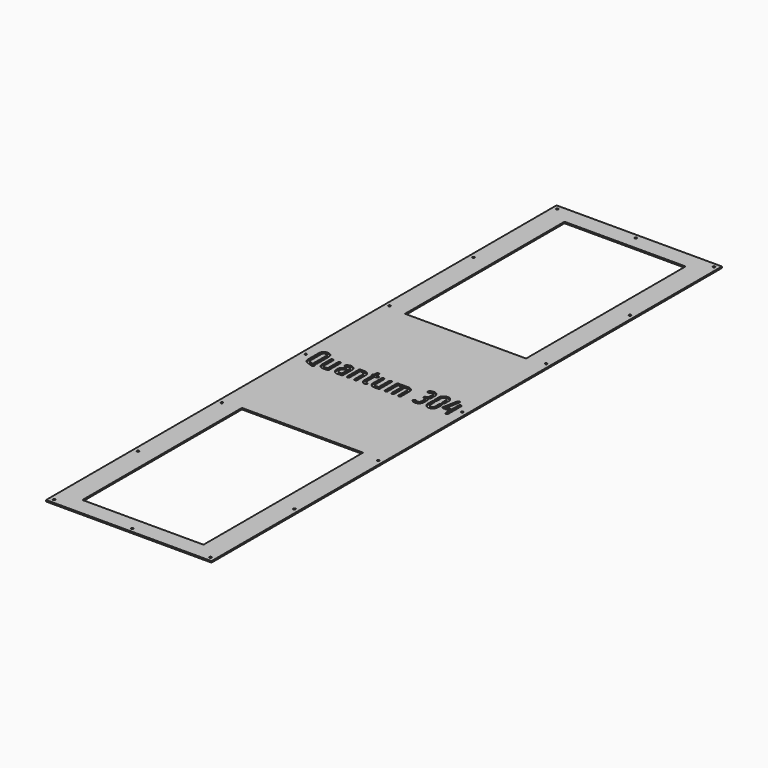
from build123d import *

# Parameters (mm, degrees)
F0_W     = 237.0582
F0_H     = 914.4
F0_R     = 1.575003
F0_W_2   = 173.5582
F0_H_2   = 285.75
F1_DEPTH = 2.032


with BuildPart() as f1:
    # F0 (on Top) → F1 (new body)
    with BuildSketch(Plane.XY):
        Rectangle(F0_W, F0_H)
        with Locations((-112.1791, -450.85)):
            Circle(F0_R, mode=Mode.SUBTRACT)
        with Locations((-112.1791, -300.566658)):
            Circle(F0_R, mode=Mode.SUBTRACT)
        with Locations((-112.1791, -150.283342)):
            Circle(F0_R, mode=Mode.SUBTRACT)
        Polygon((-82.569228, -9.030868), (-82.66844, -8.336331), (-82.718072, -7.592187), (-82.718072, 7.414641), (-82.693256, 7.588275), (-82.66844, 7.7867), (-82.618834, 7.960335), (-82.569228, 8.133969), (-82.494806, 8.307603), (-82.395593, 8.481238), (-82.271565, 8.630056), (-82.147562, 8.7789), (-81.998718, 8.902929), (-81.8499, 9.026931), (-81.676265, 9.126169), (-81.502631, 9.200566), (-81.328997, 9.250197), (-81.155362, 9.299804), (-80.956937, 9.324594), (-80.783303, 9.34941), (-80.584853, 9.324594), (-80.386428, 9.299804), (-80.212794, 9.250197), (-80.039159, 9.200566), (-79.865525, 9.126169), (-79.69189, 9.026931), (-79.543072, 8.902929), (-79.394228, 8.7789), (-79.2702, 8.630056), (-79.146197, 8.481238), (-79.046959, 8.307603), (-78.972562, 8.133969), (-78.922931, 7.960335), (-78.873325, 7.7867), (-78.848534, 7.588275), (-78.848534, 7.414641), (-78.848534, -7.592187), (-78.823718, -7.939456), (-78.774112, -8.261934), (-78.69969, -8.584387), (-78.600478, -8.88205), (-78.451659, -9.179687), (-78.278025, -9.452559), (-78.079575, -9.725406), (-77.856334, -9.998253), (-77.583487, -10.221493), (-77.31064, -10.419944), (-77.037794, -10.593553), (-76.740131, -10.742397), (-76.442468, -10.841609), (-76.120015, -10.916031), (-75.797562, -10.965637), (-75.450294, -10.990428), (-72.052053, -10.990428), (-72.052053, 7.414641), (-72.052053, 7.588275), (-72.027237, 7.7867), (-71.977631, 7.960335), (-71.928025, 8.133969), (-71.853603, 8.307603), (-71.75439, 8.481238), (-71.630362, 8.630056), (-71.506334, 8.7789), (-71.357515, 8.902929), (-71.208697, 9.026931), (-71.035062, 9.126169), (-70.861428, 9.200566), (-70.687794, 9.250197), (-70.514159, 9.299804), (-70.315709, 9.324594), (-70.117284, 9.34941), (-69.94365, 9.324594), (-69.7452, 9.299804), (-69.571565, 9.250197), (-69.397931, 9.200566), (-69.224322, 9.126169), (-69.050687, 9.026931), (-68.901843, 8.902929), (-68.753025, 8.7789), (-68.628997, 8.630056), (-68.504968, 8.481238), (-68.405756, 8.307603), (-68.331334, 8.133969), (-68.281728, 7.960335), (-68.232122, 7.7867), (-68.207306, 7.588275), (-68.182515, 7.414641), (-68.182515, -12.925196), (-68.207306, -13.098831), (-68.232122, -13.297281), (-68.281728, -13.470915), (-68.331334, -13.64455), (-68.405756, -13.818184), (-68.504968, -13.991819), (-68.628997, -14.140637), (-68.753025, -14.289456), (-68.901843, -14.413484), (-69.050687, -14.537512), (-69.224322, -14.636725), (-69.397931, -14.711147), (-69.571565, -14.760753), (-69.7452, -14.810359), (-69.94365, -14.835175), (-70.117284, -14.859965), (-75.450294, -14.859965), (-76.194437, -14.810359), (-76.88895, -14.711147), (-77.583487, -14.537512), (-78.228419, -14.314272), (-78.848534, -14.016609), (-79.46865, -13.64455), (-80.039159, -13.222859), (-80.584853, -12.726772), (-81.08094, -12.181053), (-81.502631, -11.610569), (-81.87469, -10.990428), (-82.172353, -10.370312), (-82.395593, -9.725406), align=None, mode=Mode.SUBTRACT)
        Polygon((-62.378209, -5.632628), (-62.353419, -4.888484), (-62.254181, -4.193946), (-62.080572, -3.499434), (-61.857306, -2.854503), (-61.534853, -2.234387), (-61.187584, -1.614272), (-60.741103, -1.043762), (-60.245015, -0.498069), (-59.773718, -0.051562), (-59.252815, 0.320497), (-58.731937, 0.667766), (-58.186218, 0.965429), (-57.615709, 1.188669), (-57.020409, 1.387094), (-56.400294, 1.511122), (-55.780178, 1.610335), (-55.532122, 1.585544), (-55.308881, 1.560728), (-55.110431, 1.511122), (-54.912006, 1.461516), (-54.713556, 1.362304), (-54.539947, 1.263066), (-54.391103, 1.163853), (-54.242284, 1.015035), (-54.118256, 0.866191), (-53.994228, 0.717372), (-53.895015, 0.543738), (-53.820593, 0.394919), (-53.746197, 0.221285), (-53.696565, 0.04765), (-53.671775, -0.1508), (-53.671775, -0.324434), (-53.671775, -0.522859), (-53.696565, -0.721309), (-53.746197, -0.894944), (-53.820593, -1.068553), (-53.895015, -1.242187), (-53.994228, -1.391031), (-54.09344, -1.53985), (-54.217468, -1.688694), (-54.366312, -1.812696), (-54.490315, -1.911934), (-54.639159, -2.011147), (-54.787978, -2.085569), (-54.936822, -2.159965), (-55.08564, -2.209571), (-55.234459, -2.234387), (-55.408093, -2.259178), (-55.705756, -2.308809), (-56.003419, -2.358415), (-56.276265, -2.432812), (-56.549112, -2.55684), (-56.797169, -2.680868), (-57.0452, -2.854503), (-57.293256, -3.028137), (-57.516497, -3.251378), (-57.739737, -3.499434), (-57.962978, -3.772281), (-58.111822, -4.045128), (-58.26064, -4.34279), (-58.359853, -4.640428), (-58.459065, -4.962906), (-58.483881, -5.285359), (-58.508697, -5.632628), (-58.508697, -7.592187), (-58.483881, -7.939456), (-58.459065, -8.261934), (-58.359853, -8.584387), (-58.26064, -8.88205), (-58.111822, -9.179687), (-57.962978, -9.452559), (-57.739737, -9.725406), (-57.516497, -9.998253), (-57.26844, -10.221493), (-56.995593, -10.419944), (-56.722747, -10.593553), (-56.425084, -10.742397), (-56.127447, -10.841609), (-55.804968, -10.916031), (-55.4577, -10.965637), (-55.110431, -10.990428), (-51.737006, -10.990428), (-51.737006, 2.552929), (-51.761822, 2.875382), (-51.811428, 3.22265), (-51.885825, 3.545103), (-52.009853, 3.842766), (-52.133881, 4.140429), (-52.307515, 4.413275), (-52.50594, 4.686122), (-52.729181, 4.934179), (-53.002053, 5.157419), (-53.250084, 5.38066), (-53.547747, 5.529478), (-53.820593, 5.678322), (-54.143072, 5.777535), (-54.465525, 5.876747), (-54.787978, 5.901563), (-55.135247, 5.926353), (-55.482515, 5.901563), (-55.829784, 5.851931), (-56.152237, 5.777535), (-56.4499, 5.678322), (-56.747562, 5.529478), (-57.0452, 5.355844), (-57.318072, 5.157419), (-57.590919, 4.909363), (-57.714947, 4.785335), (-57.863765, 4.661306), (-58.0374, 4.562094), (-58.186218, 4.487697), (-58.359853, 4.413275), (-58.558303, 4.363669), (-58.731937, 4.338853), (-58.955178, 4.338853), (-59.128812, 4.338853), (-59.327237, 4.363669), (-59.500872, 4.413275), (-59.674506, 4.462882), (-59.84814, 4.562094), (-60.021775, 4.661306), (-60.170593, 4.760544), (-60.319437, 4.909363), (-60.44344, 5.033391), (-60.567468, 5.207025), (-60.666681, 5.355844), (-60.741103, 5.529478), (-60.790709, 5.703113), (-60.840315, 5.876747), (-60.865131, 6.075197), (-60.889947, 6.273622), (-60.865131, 6.447257), (-60.840315, 6.645681), (-60.790709, 6.819316), (-60.741103, 6.99295), (-60.666681, 7.166585), (-60.567468, 7.315429), (-60.44344, 7.464247), (-60.319437, 7.613066), (-59.773718, 8.133969), (-59.178419, 8.58045), (-58.583093, 8.952535), (-57.938187, 9.274988), (-57.26844, 9.523044), (-56.598718, 9.671863), (-55.87939, 9.795891), (-55.135247, 9.820681), (-54.415919, 9.795891), (-53.696565, 9.696679), (-53.026843, 9.523044), (-52.357122, 9.299804), (-51.737006, 8.977325), (-51.141681, 8.630056), (-50.571197, 8.183575), (-50.025478, 7.687488), (-49.52939, 7.141794), (-49.082909, 6.571285), (-48.710825, 5.97596), (-48.413187, 5.331054), (-48.189947, 4.686122), (-48.016312, 3.991585), (-47.917075, 3.272257), (-47.867468, 2.552929), (-47.867468, -12.925196), (-47.867468, -13.098831), (-47.892284, -13.297281), (-47.94189, -13.470915), (-48.016312, -13.64455), (-48.090709, -13.818184), (-48.189947, -13.991819), (-48.31395, -14.140637), (-48.437978, -14.289456), (-48.586822, -14.413484), (-48.73564, -14.537512), (-48.884459, -14.636725), (-49.058093, -14.711147), (-49.231728, -14.760753), (-49.405362, -14.810359), (-49.603812, -14.835175), (-49.802237, -14.859965), (-55.110431, -14.859965), (-55.854575, -14.810359), (-56.573928, -14.711147), (-57.24365, -14.537512), (-57.913372, -14.314272), (-58.533487, -14.016609), (-59.128812, -13.64455), (-59.699322, -13.222859), (-60.245015, -12.726772), (-60.741103, -12.181053), (-61.187584, -11.610569), (-61.534853, -10.990428), (-61.857306, -10.370312), (-62.080572, -9.725406), (-62.254181, -9.030868), (-62.353419, -8.336331), (-62.378209, -7.592187), align=None, mode=Mode.SUBTRACT)
        Polygon((-42.460062, -13.470915), (-42.509669, -13.297281), (-42.534459, -13.098831), (-42.534459, -12.925196), (-42.534459, 7.414641), (-42.534459, 7.588275), (-42.509669, 7.7867), (-42.460062, 7.960335), (-42.38564, 8.133969), (-42.311218, 8.307603), (-42.212006, 8.481238), (-42.087978, 8.630056), (-41.96395, 8.7789), (-41.815131, 8.902929), (-41.666312, 9.026931), (-41.517468, 9.126169), (-41.343834, 9.200566), (-41.1702, 9.250197), (-40.996565, 9.299804), (-40.79814, 9.324594), (-40.59969, 9.34941), (-35.291497, 9.34941), (-34.547353, 9.299804), (-33.828025, 9.200566), (-33.158303, 9.026931), (-32.488556, 8.803691), (-31.86844, 8.506054), (-31.27314, 8.133969), (-30.702631, 7.712304), (-30.156937, 7.216191), (-29.660825, 6.670497), (-29.214343, 6.099988), (-28.867075, 5.479872), (-28.544622, 4.859757), (-28.321381, 4.214825), (-28.147747, 3.520313), (-28.048534, 2.825775), (-28.023718, 2.081632), (-28.023718, -12.925196), (-28.023718, -13.098831), (-28.048534, -13.297281), (-28.09814, -13.470915), (-28.172562, -13.64455), (-28.246959, -13.818184), (-28.346197, -13.991819), (-28.4702, -14.140637), (-28.594228, -14.289456), (-28.743072, -14.413484), (-28.89189, -14.537512), (-29.040709, -14.636725), (-29.214343, -14.711147), (-29.387978, -14.760753), (-29.561612, -14.810359), (-29.760062, -14.835175), (-29.958487, -14.859965), (-30.156937, -14.835175), (-30.355362, -14.810359), (-30.528997, -14.760753), (-30.702631, -14.711147), (-30.876265, -14.636725), (-31.025084, -14.537512), (-31.173928, -14.413484), (-31.322747, -14.289456), (-31.446775, -14.140637), (-31.570803, -13.991819), (-31.670015, -13.818184), (-31.744437, -13.64455), (-31.818834, -13.470915), (-31.86844, -13.297281), (-31.893256, -13.098831), (-31.893256, -12.925196), (-31.893256, 2.081632), (-31.918072, 2.4289), (-31.942862, 2.751353), (-32.042075, 3.073806), (-32.141312, 3.371469), (-32.290131, 3.669132), (-32.43895, 3.941978), (-32.66219, 4.214825), (-32.885431, 4.487697), (-33.133487, 4.710938), (-33.406334, 4.909363), (-33.679181, 5.082997), (-33.976843, 5.231816), (-34.274506, 5.331054), (-34.596959, 5.40545), (-34.944228, 5.455056), (-35.291497, 5.479872), (-38.664947, 5.479872), (-38.664947, -12.925196), (-38.664947, -13.098831), (-38.689737, -13.297281), (-38.739343, -13.470915), (-38.813765, -13.64455), (-38.888187, -13.818184), (-38.9874, -13.991819), (-39.111428, -14.140637), (-39.235431, -14.289456), (-39.384275, -14.413484), (-39.533093, -14.537512), (-39.681937, -14.636725), (-39.855572, -14.711147), (-40.029181, -14.760753), (-40.202815, -14.810359), (-40.401265, -14.835175), (-40.59969, -14.859965), (-40.79814, -14.835175), (-40.996565, -14.810359), (-41.1702, -14.760753), (-41.343834, -14.711147), (-41.517468, -14.636725), (-41.666312, -14.537512), (-41.815131, -14.413484), (-41.96395, -14.289456), (-42.087978, -14.140637), (-42.212006, -13.991819), (-42.311218, -13.818184), (-42.38564, -13.64455), align=None, mode=Mode.SUBTRACT)
        Polygon((-9.494622, -9.030868), (-9.593834, -8.336331), (-9.64344, -7.592187), (-9.64344, 7.414641), (-9.61865, 7.588275), (-9.593834, 7.7867), (-9.544228, 7.960335), (-9.494622, 8.133969), (-9.4202, 8.307603), (-9.320987, 8.481238), (-9.196959, 8.630056), (-9.072931, 8.7789), (-8.924112, 8.902929), (-8.775294, 9.026931), (-8.601659, 9.126169), (-8.428025, 9.200566), (-8.25439, 9.250197), (-8.080756, 9.299804), (-7.882306, 9.324594), (-7.708697, 9.34941), (-7.510247, 9.324594), (-7.311822, 9.299804), (-7.138187, 9.250197), (-6.964553, 9.200566), (-6.790919, 9.126169), (-6.617284, 9.026931), (-6.46844, 8.902929), (-6.319622, 8.7789), (-6.195593, 8.630056), (-6.071565, 8.481238), (-5.972353, 8.307603), (-5.897931, 8.133969), (-5.848325, 7.960335), (-5.798718, 7.7867), (-5.773928, 7.588275), (-5.773928, 7.414641), (-5.773928, -7.592187), (-5.749112, -7.939456), (-5.699506, -8.261934), (-5.625084, -8.584387), (-5.525872, -8.88205), (-5.377053, -9.179687), (-5.203419, -9.452559), (-5.004968, -9.725406), (-4.781728, -9.998253), (-4.508881, -10.221493), (-4.236034, -10.419944), (-3.963187, -10.593553), (-3.665525, -10.742397), (-3.367862, -10.841609), (-3.045409, -10.916031), (-2.722931, -10.965637), (-2.375687, -10.990428), (1.022553, -10.990428), (1.022553, 7.414641), (1.022553, 7.588275), (1.047369, 7.7867), (1.096975, 7.960335), (1.146581, 8.133969), (1.221003, 8.307603), (1.320216, 8.481238), (1.444244, 8.630056), (1.568272, 8.7789), (1.717091, 8.902929), (1.865935, 9.026931), (2.039569, 9.126169), (2.213178, 9.200566), (2.386813, 9.250197), (2.560447, 9.299804), (2.758897, 9.324594), (2.957322, 9.34941), (3.130956, 9.324594), (3.329407, 9.299804), (3.503041, 9.250197), (3.676675, 9.200566), (3.85031, 9.126169), (4.023944, 9.026931), (4.172763, 8.902929), (4.321581, 8.7789), (4.44561, 8.630056), (4.569638, 8.481238), (4.66885, 8.307603), (4.743272, 8.133969), (4.792878, 7.960335), (4.842485, 7.7867), (4.8673, 7.588275), (4.892091, 7.414641), (4.892091, -12.925196), (4.8673, -13.098831), (4.842485, -13.297281), (4.792878, -13.470915), (4.743272, -13.64455), (4.66885, -13.818184), (4.569638, -13.991819), (4.44561, -14.140637), (4.321581, -14.289456), (4.172763, -14.413484), (4.023944, -14.537512), (3.85031, -14.636725), (3.676675, -14.711147), (3.503041, -14.760753), (3.329407, -14.810359), (3.130956, -14.835175), (2.957322, -14.859965), (-2.375687, -14.859965), (-3.119806, -14.810359), (-3.814343, -14.711147), (-4.508881, -14.537512), (-5.153812, -14.314272), (-5.773928, -14.016609), (-6.394044, -13.64455), (-6.964553, -13.222859), (-7.510247, -12.726772), (-8.006334, -12.181053), (-8.428025, -11.610569), (-8.800084, -10.990428), (-9.097747, -10.370312), (-9.320987, -9.725406), align=None, mode=Mode.SUBTRACT)
        with Locations((0, -450.85)):
            Circle(F0_R, mode=Mode.SUBTRACT)
        with Locations((0, -288.925)):
            Rectangle(F0_W_2, F0_H_2, mode=Mode.SUBTRACT)
        with Locations((112.1791, -450.85)):
            Circle(F0_R, mode=Mode.SUBTRACT)
        with Locations((112.1791, -300.566658)):
            Circle(F0_R, mode=Mode.SUBTRACT)
        Polygon((11.738178, -13.470915), (11.688572, -13.297281), (11.663782, -13.098831), (11.663782, -12.925196), (11.663782, 7.414641), (11.663782, 7.588275), (11.688572, 7.7867), (11.738178, 7.960335), (11.8126, 8.133969), (11.887022, 8.307603), (11.986235, 8.481238), (12.110263, 8.630056), (12.234291, 8.7789), (12.38311, 8.902929), (12.531928, 9.026931), (12.680772, 9.126169), (12.854407, 9.200566), (13.028041, 9.250197), (13.201675, 9.299804), (13.4001, 9.324594), (13.59855, 9.34941), (27.637994, 9.34941), (28.357322, 9.299804), (29.076675, 9.200566), (29.746397, 9.026931), (30.416119, 8.803691), (31.036235, 8.506054), (31.63156, 8.133969), (32.202069, 7.712304), (32.747763, 7.216191), (33.24385, 6.670497), (33.690331, 6.099988), (34.0376, 5.479872), (34.360053, 4.859757), (34.583319, 4.214825), (34.756928, 3.520313), (34.856166, 2.825775), (34.880956, 2.081632), (34.880956, -12.925196), (34.880956, -13.098831), (34.856166, -13.297281), (34.80656, -13.470915), (34.732138, -13.64455), (34.657716, -13.818184), (34.558503, -13.991819), (34.434475, -14.140637), (34.310447, -14.289456), (34.161628, -14.413484), (34.01281, -14.537512), (33.863966, -14.636725), (33.690331, -14.711147), (33.516697, -14.760753), (33.343063, -14.810359), (33.144638, -14.835175), (32.946188, -14.859965), (32.747763, -14.835175), (32.549313, -14.810359), (32.375678, -14.760753), (32.202069, -14.711147), (32.028435, -14.636725), (31.879591, -14.537512), (31.730772, -14.413484), (31.581928, -14.289456), (31.457925, -14.140637), (31.333897, -13.991819), (31.234685, -13.818184), (31.160263, -13.64455), (31.085841, -13.470915), (31.036235, -13.297281), (31.011444, -13.098831), (31.011444, -12.925196), (31.011444, 2.081632), (30.986628, 2.4289), (30.961813, 2.751353), (30.8626, 3.073806), (30.763388, 3.371469), (30.614569, 3.669132), (30.465725, 3.941978), (30.242485, 4.214825), (30.019244, 4.487697), (29.771188, 4.710938), (29.498341, 4.909363), (29.225494, 5.082997), (28.927831, 5.231816), (28.630194, 5.331054), (28.307716, 5.40545), (27.960447, 5.455056), (27.637994, 5.479872), (25.207138, 5.479872), (25.207138, -12.925196), (25.207138, -13.098831), (25.182322, -13.297281), (25.132716, -13.470915), (25.058319, -13.64455), (24.983897, -13.818184), (24.884685, -13.991819), (24.760657, -14.140637), (24.636628, -14.289456), (24.48781, -14.413484), (24.338966, -14.537512), (24.190147, -14.636725), (24.016513, -14.711147), (23.842878, -14.760753), (23.669244, -14.810359), (23.470819, -14.835175), (23.272369, -14.859965), (23.073944, -14.835175), (22.875494, -14.810359), (22.70186, -14.760753), (22.528225, -14.711147), (22.354591, -14.636725), (22.205772, -14.537512), (22.056928, -14.413484), (21.90811, -14.289456), (21.784081, -14.140637), (21.660053, -13.991819), (21.560841, -13.818184), (21.486444, -13.64455), (21.412022, -13.470915), (21.362416, -13.297281), (21.3376, -13.098831), (21.3376, -12.925196), (21.3376, 5.479872), (15.533319, 5.479872), (15.533319, -12.925196), (15.533319, -13.098831), (15.508503, -13.297281), (15.458897, -13.470915), (15.384475, -13.64455), (15.310053, -13.818184), (15.210841, -13.991819), (15.086813, -14.140637), (14.96281, -14.289456), (14.813966, -14.413484), (14.665147, -14.537512), (14.516303, -14.636725), (14.342694, -14.711147), (14.16906, -14.760753), (13.995425, -14.810359), (13.796975, -14.835175), (13.59855, -14.859965), (13.4001, -14.835175), (13.201675, -14.810359), (13.028041, -14.760753), (12.854407, -14.711147), (12.680772, -14.636725), (12.531928, -14.537512), (12.38311, -14.413484), (12.234291, -14.289456), (12.110263, -14.140637), (11.986235, -13.991819), (11.887022, -13.818184), (11.8126, -13.64455), align=None, mode=Mode.SUBTRACT)
        with Locations((112.1791, -150.283342)):
            Circle(F0_R, mode=Mode.SUBTRACT)
        Polygon((69.359475, -9.526956), (69.260263, -8.807628), (69.210657, -8.063484), (69.210657, -1.316609), (69.235447, -1.142975), (69.260263, -0.94455), (69.309869, -0.770915), (69.359475, -0.597281), (69.433897, -0.423647), (69.53311, -0.250012), (69.657138, -0.101194), (69.781166, 0.04765), (69.929985, 0.171679), (70.078803, 0.295681), (70.252438, 0.394919), (70.426072, 0.469316), (70.599706, 0.518947), (70.773341, 0.568554), (70.971791, 0.593344), (71.145425, 0.61816), (71.34385, 0.593344), (71.5423, 0.568554), (71.715935, 0.518947), (71.889569, 0.469316), (72.063178, 0.394919), (72.236813, 0.295681), (72.385657, 0.171679), (72.534475, 0.04765), (72.658503, -0.101194), (72.782532, -0.250012), (72.881744, -0.423647), (72.956166, -0.597281), (73.005772, -0.770915), (73.055378, -0.94455), (73.080194, -1.142975), (73.080194, -1.316609), (73.080194, -8.063484), (73.104985, -8.410753), (73.154591, -8.758022), (73.229013, -9.080475), (73.328225, -9.378137), (73.477069, -9.6758), (73.650678, -9.948647), (73.849128, -10.221493), (74.072369, -10.46955), (74.345216, -10.69279), (74.618063, -10.916031), (74.890935, -11.06485), (75.188572, -11.213694), (75.486235, -11.312906), (75.808688, -11.412118), (76.131166, -11.436934), (76.478435, -11.461725), (76.825678, -11.436934), (77.148157, -11.412118), (77.47061, -11.312906), (77.768272, -11.213694), (78.065935, -11.06485), (78.338782, -10.916031), (78.611628, -10.69279), (78.884475, -10.46955), (79.107716, -10.221493), (79.306166, -9.948647), (79.4798, -9.6758), (79.628619, -9.378137), (79.727831, -9.080475), (79.802253, -8.758022), (79.85186, -8.410753), (79.876675, -8.063484), (79.876675, -1.316609), (79.876675, -1.142975), (79.901466, -0.94455), (79.951072, -0.770915), (80.000678, -0.597281), (80.0751, -0.423647), (80.174313, -0.250012), (80.298341, -0.101194), (80.422369, 0.04765), (80.571188, 0.171679), (80.720032, 0.295681), (80.893666, 0.394919), (81.0673, 0.469316), (81.240935, 0.518947), (81.414569, 0.568554), (81.612994, 0.593344), (81.811444, 0.61816), (81.985053, 0.593344), (82.183503, 0.568554), (82.357138, 0.518947), (82.530772, 0.469316), (82.704407, 0.394919), (82.878041, 0.295681), (83.02686, 0.171679), (83.175678, 0.04765), (83.299706, -0.101194), (83.423735, -0.250012), (83.522947, -0.423647), (83.597369, -0.597281), (83.646975, -0.770915), (83.696581, -0.94455), (83.721397, -1.142975), (83.746188, -1.316609), (83.746188, -8.063484), (83.696581, -8.807628), (83.597369, -9.526956), (83.423735, -10.196678), (83.200494, -10.866425), (82.902831, -11.48654), (82.530772, -12.08184), (82.109081, -12.65235), (81.612994, -13.198069), (81.0673, -13.694156), (80.496791, -14.140637), (79.876675, -14.487906), (79.25656, -14.810359), (78.611628, -15.0336), (77.917091, -15.207234), (77.222553, -15.306446), (76.478435, -15.331262), (75.734291, -15.306446), (75.039753, -15.207234), (74.345216, -15.0336), (73.70031, -14.810359), (73.080194, -14.487906), (72.460053, -14.140637), (71.889569, -13.694156), (71.34385, -13.198069), (70.847763, -12.65235), (70.426072, -12.08184), (70.054013, -11.48654), (69.75635, -10.866425), (69.53311, -10.196678), align=None, mode=Mode.SUBTRACT)
        with Locations((-112.1791, 0)):
            Circle(F0_R, mode=Mode.SUBTRACT)
        Polygon((-102.537006, 11.284179), (-102.51219, 12.003507), (-102.412978, 12.722835), (-102.239343, 13.392556), (-102.016103, 14.062304), (-101.69365, 14.682419), (-101.346381, 15.277719), (-100.8999, 15.848228), (-100.403812, 16.393947), (-99.858093, 16.890035), (-99.287584, 17.336516), (-98.692284, 17.683785), (-98.072169, 18.006238), (-97.402447, 18.229478), (-96.7327, 18.403113), (-96.013372, 18.502325), (-95.269228, 18.527141), (-94.5499, 18.502325), (-93.830572, 18.403113), (-93.160825, 18.229478), (-92.491103, 18.006238), (-91.870987, 17.683785), (-91.275687, 17.336516), (-90.705178, 16.890035), (-90.159459, 16.393947), (-89.663372, 15.848228), (-89.21689, 15.277719), (-88.869622, 14.682419), (-88.547169, 14.062304), (-88.323928, 13.392556), (-88.150294, 12.722835), (-88.051056, 12.003507), (-88.026265, 11.284179), (-88.026265, -8.063484), (-88.026265, -8.286725), (-88.026265, -8.509965), (-88.051056, -8.733206), (-88.075872, -8.956446), (-88.100687, -9.154897), (-88.125478, -9.378137), (-88.150294, -9.576562), (-88.1999, -9.799803), (-88.22469, -9.923831), (-88.274322, -10.072675), (-88.323928, -10.196678), (-88.373534, -10.320706), (-88.447931, -10.419944), (-88.522353, -10.543946), (-88.621565, -10.643184), (-88.720803, -10.767187), (-88.869622, -10.891215), (-89.043256, -11.015243), (-89.192075, -11.114456), (-89.365709, -11.188878), (-89.539343, -11.2633), (-89.712978, -11.312906), (-89.911428, -11.337696), (-90.109853, -11.337696), (-90.308303, -11.337696), (-90.481937, -11.312906), (-90.680362, -11.2633), (-90.853997, -11.188878), (-91.002815, -11.114456), (-91.17645, -11.015243), (-91.325294, -10.916031), (-91.474112, -10.767187), (-91.59814, -10.618368), (-91.722169, -10.46955), (-91.821381, -10.320706), (-91.895803, -10.147071), (-91.9702, -9.973437), (-91.995015, -9.799803), (-92.019806, -9.601378), (-92.044622, -9.402928), (-92.044622, -9.353321), (-92.044622, -9.303715), (-92.044622, -9.254109), (-92.044622, -9.204503), (-92.019806, -9.154897), (-92.019806, -9.080475), (-92.019806, -9.030868), (-92.019806, -8.981262), (-91.995015, -8.857234), (-91.9702, -8.758022), (-91.945409, -8.633993), (-91.920593, -8.534781), (-91.920593, -8.410753), (-91.895803, -8.31154), (-91.895803, -8.187512), (-91.895803, -8.063484), (-91.895803, 11.284179), (-91.920593, 11.606632), (-91.945409, 11.9539), (-92.044622, 12.276353), (-92.143834, 12.574016), (-92.292678, 12.871679), (-92.441497, 13.144525), (-92.664737, 13.417372), (-92.887978, 13.665429), (-93.136034, 13.888669), (-93.408881, 14.11191), (-93.681728, 14.260728), (-93.97939, 14.409572), (-94.277053, 14.508785), (-94.599506, 14.607997), (-94.946775, 14.632813), (-95.269228, 14.657603), (-95.616497, 14.632813), (-95.963765, 14.607997), (-96.286218, 14.508785), (-96.583881, 14.409572), (-96.881544, 14.260728), (-97.15439, 14.11191), (-97.427237, 13.888669), (-97.675294, 13.665429), (-97.898534, 13.417372), (-98.121775, 13.144525), (-98.270593, 12.871679), (-98.419437, 12.574016), (-98.51865, 12.276353), (-98.617862, 11.9539), (-98.642678, 11.606632), (-98.667468, 11.284179), (-98.667468, -8.063484), (-98.642678, -8.410753), (-98.617862, -8.733206), (-98.54344, -9.030868), (-98.444228, -9.328531), (-98.295409, -9.601378), (-98.146565, -9.849434), (-97.94814, -10.097465), (-97.7249, -10.320706), (-97.501659, -10.519156), (-97.253603, -10.717581), (-97.005572, -10.891215), (-96.7327, -11.040059), (-96.484669, -11.164062), (-96.187006, -11.28809), (-95.914159, -11.387303), (-95.616497, -11.48654), (-88.1999, -14.066215), (-88.00145, -14.140637), (-87.827815, -14.23985), (-87.678997, -14.339062), (-87.530178, -14.46309), (-87.381334, -14.587118), (-87.257306, -14.735937), (-87.158093, -14.884781), (-87.058881, -15.058415), (-87.009275, -15.182444), (-86.984459, -15.281656), (-86.934853, -15.380868), (-86.910062, -15.504897), (-86.885247, -15.604109), (-86.885247, -15.703321), (-86.860431, -15.802559), (-86.860431, -15.901772), (-86.860431, -15.976194), (-86.860431, -16.05059), (-86.885247, -16.125012), (-86.885247, -16.199434), (-86.910062, -16.273831), (-86.910062, -16.348253), (-86.934853, -16.447465), (-86.959669, -16.521887), (-87.034065, -16.695522), (-87.133303, -16.869156), (-87.232515, -17.04279), (-87.331728, -17.191609), (-87.480572, -17.315637), (-87.62939, -17.439665), (-87.778209, -17.563694), (-87.951843, -17.662906), (-88.051056, -17.687696), (-88.175084, -17.737328), (-88.274322, -17.762118), (-88.373534, -17.786934), (-88.497562, -17.811725), (-88.596775, -17.83654), (-88.695987, -17.83654), (-88.7952, -17.83654), (-88.869622, -17.83654), (-88.968834, -17.83654), (-89.043256, -17.83654), (-89.117678, -17.811725), (-89.192075, -17.811725), (-89.266497, -17.786934), (-89.340919, -17.762118), (-89.440131, -17.737328), (-97.203997, -15.083206), (-97.700084, -14.909571), (-98.146565, -14.711147), (-98.593072, -14.487906), (-98.989947, -14.264665), (-99.386822, -14.016609), (-99.758881, -13.768553), (-100.081334, -13.495706), (-100.403812, -13.198069), (-100.8999, -12.65235), (-101.346381, -12.08184), (-101.69365, -11.48654), (-102.016103, -10.866425), (-102.239343, -10.196678), (-102.412978, -9.526956), (-102.51219, -8.807628), (-102.537006, -8.063484), align=None, mode=Mode.SUBTRACT)
        with Locations((-112.1791, 150.283342)):
            Circle(F0_R, mode=Mode.SUBTRACT)
        Polygon((-23.1124, 6.844132), (-23.162006, 7.017766), (-23.186822, 7.216191), (-23.186822, 7.414641), (-23.186822, 7.588275), (-23.162006, 7.7867), (-23.1124, 7.960335), (-23.062794, 8.133969), (-22.963556, 8.307603), (-22.864343, 8.481238), (-22.765131, 8.630056), (-22.616312, 8.7789), (-22.517075, 8.878113), (-22.417862, 8.952535), (-22.31865, 9.026931), (-22.194622, 9.101353), (-22.095409, 9.15096), (-21.971381, 9.200566), (-21.847353, 9.250197), (-21.723325, 9.299804), (-21.723325, 13.194132), (-21.723325, 13.367766), (-21.698534, 13.566191), (-21.648928, 13.739825), (-21.574506, 13.91346), (-21.500084, 14.087094), (-21.400872, 14.260728), (-21.276843, 14.409572), (-21.152815, 14.558391), (-21.003997, 14.682419), (-20.830362, 14.806447), (-20.681544, 14.90566), (-20.507909, 14.980056), (-20.334275, 15.029688), (-20.16064, 15.079294), (-19.987006, 15.104085), (-19.788556, 15.1289), (-19.590131, 15.104085), (-19.391681, 15.079294), (-19.218072, 15.029688), (-19.044437, 14.980056), (-18.870803, 14.90566), (-18.721959, 14.806447), (-18.57314, 14.682419), (-18.424322, 14.558391), (-18.300294, 14.409572), (-18.176265, 14.260728), (-18.077053, 14.087094), (-18.002631, 13.91346), (-17.928209, 13.739825), (-17.878603, 13.566191), (-17.853812, 13.367766), (-17.853812, 13.194132), (-17.853812, 9.34941), (-15.422931, 9.34941), (-15.249322, 9.324594), (-15.050872, 9.299804), (-14.877237, 9.250197), (-14.703603, 9.200566), (-14.529968, 9.126169), (-14.356334, 9.026931), (-14.207515, 8.902929), (-14.058697, 8.7789), (-13.934669, 8.630056), (-13.81064, 8.481238), (-13.711428, 8.307603), (-13.637006, 8.133969), (-13.5874, 7.960335), (-13.537794, 7.7867), (-13.512978, 7.588275), (-13.488187, 7.414641), (-13.512978, 7.216191), (-13.537794, 7.017766), (-13.5874, 6.844132), (-13.637006, 6.670497), (-13.711428, 6.496863), (-13.81064, 6.323228), (-13.934669, 6.17441), (-14.058697, 6.025566), (-14.207515, 5.901563), (-14.356334, 5.777535), (-14.529968, 5.678322), (-14.703603, 5.6039), (-14.877237, 5.554294), (-15.050872, 5.504688), (-15.249322, 5.479872), (-15.422931, 5.479872), (-17.853812, 5.479872), (-17.853812, -8.559571), (-17.853812, -8.807628), (-17.804181, -9.055684), (-17.754575, -9.278925), (-17.680178, -9.502165), (-17.58094, -9.70059), (-17.456937, -9.89904), (-17.308093, -10.097465), (-17.159275, -10.2711), (-16.960825, -10.444734), (-16.78719, -10.593553), (-16.588765, -10.69279), (-16.365525, -10.792003), (-16.142284, -10.891215), (-15.919044, -10.940821), (-15.695803, -10.965637), (-15.422931, -10.990428), (-15.224506, -10.990428), (-15.050872, -11.015243), (-14.852447, -11.06485), (-14.678812, -11.114456), (-14.505178, -11.213694), (-14.356334, -11.312906), (-14.1827, -11.412118), (-14.033881, -11.560937), (-13.909853, -11.709781), (-13.785825, -11.8586), (-13.686612, -12.032234), (-13.61219, -12.181053), (-13.562584, -12.354687), (-13.512978, -12.528321), (-13.488187, -12.726772), (-13.488187, -12.925196), (-13.488187, -13.098831), (-13.512978, -13.297281), (-13.562584, -13.470915), (-13.61219, -13.64455), (-13.686612, -13.818184), (-13.785825, -13.991819), (-13.909853, -14.140637), (-14.033881, -14.289456), (-14.1827, -14.413484), (-14.356334, -14.537512), (-14.505178, -14.636725), (-14.678812, -14.711147), (-14.852447, -14.760753), (-15.050872, -14.810359), (-15.224506, -14.835175), (-15.422931, -14.859965), (-16.067862, -14.810359), (-16.687978, -14.735937), (-17.283303, -14.587118), (-17.828997, -14.388694), (-18.37469, -14.115821), (-18.895593, -13.818184), (-19.391681, -13.421309), (-19.862978, -12.999618), (-20.309459, -12.528321), (-20.681544, -12.032234), (-21.003997, -11.511331), (-21.252053, -10.965637), (-21.475294, -10.395128), (-21.599322, -9.799803), (-21.698534, -9.204503), (-21.723325, -8.559571), (-21.723325, 5.504688), (-21.847353, 5.554294), (-21.971381, 5.6039), (-22.095409, 5.653507), (-22.194622, 5.703113), (-22.31865, 5.777535), (-22.417862, 5.851931), (-22.517075, 5.951169), (-22.616312, 6.050382), (-22.765131, 6.1992), (-22.864343, 6.348044), (-22.963556, 6.521679), (-23.062794, 6.670497), align=None, mode=Mode.SUBTRACT)
        with Locations((-112.1791, 300.566658)):
            Circle(F0_R, mode=Mode.SUBTRACT)
        with Locations((-112.1791, 450.85)):
            Circle(F0_R, mode=Mode.SUBTRACT)
        Polygon((50.929591, -12.131446), (50.9048, -11.933022), (50.879985, -11.759387), (50.9048, -11.560937), (50.929591, -11.362512), (50.979197, -11.188878), (51.028803, -11.015243), (51.103225, -10.841609), (51.202438, -10.69279), (51.326466, -10.519156), (51.450494, -10.395128), (51.599313, -10.246309), (51.748157, -10.147071), (51.921791, -10.047859), (52.095425, -9.948647), (52.26906, -9.89904), (52.442694, -9.849434), (52.641119, -9.824618), (52.814753, -9.824618), (53.013178, -9.824618), (53.211628, -9.849434), (53.385263, -9.89904), (53.558897, -9.948647), (53.732532, -10.023069), (53.906166, -10.122281), (54.054985, -10.246309), (54.203803, -10.370312), (54.476675, -10.618368), (54.749522, -10.841609), (55.047185, -11.015243), (55.344822, -11.164062), (55.6673, -11.28809), (55.989753, -11.362512), (56.337022, -11.412118), (56.659475, -11.436934), (57.03156, -11.412118), (57.354013, -11.387303), (57.676466, -11.28809), (57.974128, -11.188878), (58.271791, -11.040059), (58.569428, -10.891215), (58.817485, -10.667975), (59.065541, -10.444734), (59.313572, -10.196678), (59.512022, -9.923831), (59.685657, -9.650984), (59.809685, -9.353321), (59.908897, -9.055684), (60.00811, -8.733206), (60.032925, -8.410753), (60.057716, -8.063484), (60.057716, -2.730475), (60.057716, -2.482444), (60.00811, -2.234387), (59.958503, -2.011147), (59.884081, -1.787906), (59.784869, -1.589456), (59.660841, -1.391031), (59.536813, -1.192581), (59.363178, -1.018946), (59.189569, -0.845312), (58.991119, -0.696493), (58.792694, -0.597281), (58.594244, -0.498069), (58.371003, -0.423647), (58.147763, -0.349225), (57.899706, -0.324434), (57.651675, -0.324434), (57.62686, -0.324434), (57.453225, -0.299618), (57.2548, -0.274803), (57.081166, -0.225196), (56.907532, -0.17559), (56.733897, -0.076378), (56.560263, 0.022835), (56.411444, 0.122072), (56.2626, 0.270891), (56.138572, 0.41971), (56.014569, 0.568554), (55.915331, 0.742188), (55.840935, 0.891007), (55.791303, 1.064641), (55.741697, 1.238275), (55.716907, 1.4367), (55.692091, 1.610335), (55.716907, 1.808785), (55.741697, 2.00721), (55.791303, 2.180844), (55.840935, 2.354478), (55.915331, 2.528113), (56.014569, 2.701747), (56.138572, 2.850566), (56.2626, 2.99941), (56.411444, 3.123438), (56.560263, 3.247441), (56.733897, 3.346679), (56.907532, 3.421075), (57.081166, 3.470681), (57.2548, 3.520313), (57.453225, 3.545103), (57.62686, 3.545103), (57.651675, 3.545103), (57.899706, 3.569919), (58.147763, 3.59471), (58.371003, 3.644316), (58.594244, 3.743554), (58.792694, 3.842766), (58.991119, 3.941978), (59.189569, 4.090822), (59.363178, 4.264431), (59.536813, 4.438066), (59.660841, 4.636516), (59.784869, 4.834941), (59.884081, 5.033391), (59.958503, 5.256632), (60.00811, 5.479872), (60.057716, 5.727929), (60.057716, 5.97596), (60.057716, 11.284179), (60.032925, 11.631447), (60.00811, 11.9539), (59.908897, 12.276353), (59.809685, 12.574016), (59.685657, 12.871679), (59.512022, 13.144525), (59.313572, 13.417372), (59.065541, 13.665429), (58.817485, 13.888669), (58.569428, 14.11191), (58.271791, 14.260728), (57.974128, 14.409572), (57.676466, 14.508785), (57.354013, 14.607997), (57.03156, 14.632813), (56.659475, 14.657603), (56.337022, 14.632813), (55.989753, 14.583181), (55.6673, 14.508785), (55.369638, 14.409572), (55.071975, 14.260728), (54.774313, 14.062304), (54.476675, 13.863853), (54.203803, 13.615822), (54.054985, 13.491794), (53.906166, 13.367766), (53.732532, 13.268554), (53.558897, 13.194132), (53.385263, 13.11971), (53.211628, 13.070103), (53.013178, 13.045313), (52.814753, 13.045313), (52.641119, 13.045313), (52.442694, 13.070103), (52.26906, 13.11971), (52.095425, 13.169316), (51.921791, 13.268554), (51.748157, 13.367766), (51.599313, 13.466978), (51.450494, 13.615822), (51.326466, 13.739825), (51.202438, 13.91346), (51.103225, 14.062304), (51.028803, 14.235938), (50.979197, 14.409572), (50.929591, 14.583181), (50.9048, 14.781632), (50.879985, 14.980056), (50.9048, 15.153691), (50.929591, 15.352141), (50.979197, 15.525775), (51.028803, 15.69941), (51.128041, 15.873044), (51.227253, 16.021863), (51.326466, 16.170681), (51.47531, 16.319525), (52.045819, 16.840429), (52.616303, 17.3117), (53.236444, 17.683785), (53.88135, 18.006238), (54.526282, 18.229478), (55.220819, 18.403113), (55.940147, 18.527141), (56.659475, 18.551931), (57.403619, 18.527141), (58.122947, 18.427929), (58.792694, 18.254294), (59.462416, 18.031054), (60.082532, 17.708575), (60.677831, 17.361306), (61.248341, 16.914825), (61.79406, 16.418738), (62.290147, 15.873044), (62.736628, 15.302535), (63.083897, 14.70721), (63.40635, 14.087094), (63.629591, 13.417372), (63.803225, 12.74765), (63.902438, 12.028322), (63.927253, 11.284179), (63.927253, 5.97596), (63.902438, 5.331054), (63.828041, 4.735728), (63.679197, 4.140429), (63.480772, 3.59471), (63.232716, 3.073806), (62.935053, 2.552929), (62.562994, 2.081632), (62.166119, 1.610335), (62.562994, 1.163853), (62.935053, 0.692556), (63.232716, 0.171679), (63.480772, -0.349225), (63.679197, -0.894944), (63.828041, -1.490243), (63.902438, -2.085569), (63.927253, -2.730475), (63.927253, -8.063484), (63.902438, -8.807628), (63.803225, -9.526956), (63.629591, -10.196678), (63.40635, -10.866425), (63.083897, -11.48654), (62.736628, -12.08184), (62.290147, -12.65235), (61.79406, -13.198069), (61.248341, -13.694156), (60.677831, -14.140637), (60.082532, -14.487906), (59.462416, -14.810359), (58.792694, -15.0336), (58.122947, -15.207234), (57.403619, -15.306446), (56.659475, -15.331262), (55.940147, -15.306446), (55.220819, -15.182444), (54.526282, -15.008809), (53.88135, -14.785569), (53.236444, -14.46309), (52.616303, -14.091031), (52.045819, -13.619734), (51.47531, -13.098831), (51.326466, -12.950012), (51.227253, -12.801194), (51.128041, -12.65235), (51.028803, -12.478715), (50.979197, -12.305081), align=None, mode=Mode.SUBTRACT)
        Polygon((69.210657, 11.284179), (69.260263, 12.028322), (69.359475, 12.74765), (69.53311, 13.417372), (69.75635, 14.087094), (70.054013, 14.70721), (70.426072, 15.302535), (70.847763, 15.873044), (71.34385, 16.418738), (71.889569, 16.914825), (72.460053, 17.361306), (73.080194, 17.708575), (73.70031, 18.031054), (74.345216, 18.254294), (75.039753, 18.427929), (75.734291, 18.527141), (76.478435, 18.551931), (77.222553, 18.527141), (77.917091, 18.427929), (78.611628, 18.254294), (79.25656, 18.031054), (79.876675, 17.708575), (80.496791, 17.361306), (81.0673, 16.914825), (81.612994, 16.418738), (82.109081, 15.873044), (82.530772, 15.302535), (82.902831, 14.70721), (83.200494, 14.087094), (83.423735, 13.417372), (83.597369, 12.74765), (83.696581, 12.028322), (83.746188, 11.284179), (83.746188, 4.537304), (83.721397, 4.363669), (83.696581, 4.165219), (83.646975, 3.991585), (83.597369, 3.81795), (83.522947, 3.644316), (83.423735, 3.470681), (83.299706, 3.321863), (83.175678, 3.173044), (83.02686, 3.049016), (82.878041, 2.924988), (82.704407, 2.825775), (82.530772, 2.751353), (82.357138, 2.701747), (82.183503, 2.652141), (81.985053, 2.627325), (81.811444, 2.602535), (81.612994, 2.627325), (81.414569, 2.652141), (81.240935, 2.701747), (81.0673, 2.751353), (80.893666, 2.825775), (80.720032, 2.924988), (80.571188, 3.049016), (80.422369, 3.173044), (80.298341, 3.321863), (80.174313, 3.470681), (80.0751, 3.644316), (80.000678, 3.81795), (79.951072, 3.991585), (79.901466, 4.165219), (79.876675, 4.363669), (79.876675, 4.537304), (79.876675, 11.284179), (79.85186, 11.631447), (79.802253, 11.978691), (79.727831, 12.301169), (79.628619, 12.598806), (79.4798, 12.896469), (79.306166, 13.169316), (79.107716, 13.442188), (78.884475, 13.690219), (78.611628, 13.91346), (78.338782, 14.11191), (78.065935, 14.285544), (77.768272, 14.434363), (77.47061, 14.533575), (77.148157, 14.607997), (76.825678, 14.657603), (76.478435, 14.682419), (76.131166, 14.657603), (75.808688, 14.607997), (75.486235, 14.533575), (75.188572, 14.434363), (74.890935, 14.285544), (74.618063, 14.11191), (74.345216, 13.91346), (74.072369, 13.690219), (73.849128, 13.442188), (73.650678, 13.169316), (73.477069, 12.896469), (73.328225, 12.598806), (73.229013, 12.301169), (73.154591, 11.978691), (73.104985, 11.631447), (73.080194, 11.284179), (73.080194, 4.537304), (73.080194, 4.363669), (73.055378, 4.165219), (73.005772, 3.991585), (72.956166, 3.81795), (72.881744, 3.644316), (72.782532, 3.470681), (72.658503, 3.321863), (72.534475, 3.173044), (72.385657, 3.049016), (72.236813, 2.924988), (72.063178, 2.825775), (71.889569, 2.751353), (71.715935, 2.701747), (71.5423, 2.652141), (71.34385, 2.627325), (71.145425, 2.602535), (70.971791, 2.627325), (70.773341, 2.652141), (70.599706, 2.701747), (70.426072, 2.751353), (70.252438, 2.825775), (70.078803, 2.924988), (69.929985, 3.049016), (69.781166, 3.173044), (69.657138, 3.321863), (69.53311, 3.470681), (69.433897, 3.644316), (69.359475, 3.81795), (69.309869, 3.991585), (69.260263, 4.165219), (69.235447, 4.363669), (69.210657, 4.537304), align=None, mode=Mode.SUBTRACT)
        Polygon((87.690147, -4.789272), (87.640541, -4.615637), (87.615725, -4.417187), (87.615725, -4.218762), (87.615725, -4.14434), (87.615725, -4.069944), (87.615725, -3.995522), (87.615725, -3.9211), (87.640541, -3.846678), (87.665331, -3.797071), (87.665331, -3.722675), (87.690147, -3.673069), (91.485263, 16.121075), (91.510053, 16.319525), (91.559685, 16.51795), (91.609291, 16.691585), (91.683688, 16.865219), (91.75811, 17.038853), (91.857322, 17.187697), (91.95656, 17.336516), (92.080563, 17.485335), (92.229407, 17.609363), (92.378225, 17.733391), (92.527069, 17.832603), (92.675888, 17.907025), (92.849522, 17.956632), (93.023157, 18.006238), (93.221581, 18.031054), (93.420032, 18.031054), (93.593666, 18.031054), (93.792091, 18.006238), (93.965725, 17.956632), (94.13936, 17.907025), (94.312994, 17.832603), (94.486628, 17.733391), (94.635447, 17.609363), (94.784291, 17.485335), (94.908319, 17.336516), (95.032322, 17.187697), (95.13156, 17.014063), (95.205956, 16.840429), (95.255563, 16.666794), (95.305194, 16.49316), (95.329985, 16.29471), (95.3548, 16.096285), (95.329985, 16.046679), (95.329985, 15.972257), (95.329985, 15.897835), (95.329985, 15.823438), (95.329985, 15.749016), (95.305194, 15.674594), (95.305194, 15.624988), (95.305194, 15.550566), (91.882138, -2.283993), (98.728225, -2.283993), (98.728225, 10.291978), (98.728225, 10.465613), (98.753041, 10.664063), (98.802647, 10.837697), (98.877069, 11.011306), (98.951466, 11.184941), (99.050678, 11.358575), (99.174706, 11.507419), (99.298735, 11.656238), (99.447553, 11.780266), (99.596397, 11.904294), (99.745216, 12.003507), (99.91885, 12.077929), (100.092485, 12.127535), (100.266119, 12.177141), (100.464569, 12.201931), (100.662994, 12.226747), (100.861444, 12.201931), (101.059869, 12.177141), (101.233503, 12.127535), (101.407138, 12.077929), (101.580772, 12.003507), (101.729591, 11.904294), (101.878435, 11.780266), (102.027253, 11.656238), (102.151282, 11.507419), (102.27531, 11.358575), (102.374522, 11.184941), (102.448944, 11.011306), (102.523341, 10.837697), (102.572947, 10.664063), (102.597763, 10.465613), (102.597763, 10.291978), (102.597763, -12.925196), (102.597763, -13.123647), (102.572947, -13.322071), (102.523341, -13.495706), (102.448944, -13.66934), (102.374522, -13.842975), (102.27531, -14.016609), (102.151282, -14.165428), (102.027253, -14.314272), (101.878435, -14.4383), (101.729591, -14.562328), (101.580772, -14.66154), (101.407138, -14.735937), (101.233503, -14.785569), (101.059869, -14.835175), (100.861444, -14.859965), (100.662994, -14.859965), (100.464569, -14.859965), (100.266119, -14.835175), (100.092485, -14.785569), (99.91885, -14.735937), (99.745216, -14.66154), (99.596397, -14.562328), (99.447553, -14.4383), (99.298735, -14.314272), (99.174706, -14.165428), (99.050678, -14.016609), (98.951466, -13.842975), (98.877069, -13.66934), (98.802647, -13.495706), (98.753041, -13.322071), (98.728225, -13.123647), (98.728225, -12.925196), (98.728225, -6.153531), (89.550494, -6.153531), (89.352069, -6.153531), (89.153619, -6.128715), (88.979985, -6.079109), (88.80635, -6.029503), (88.632716, -5.93029), (88.459081, -5.831053), (88.310263, -5.73184), (88.161444, -5.583022), (88.037416, -5.434178), (87.913388, -5.285359), (87.814175, -5.111725), (87.739753, -4.962906), align=None, mode=Mode.SUBTRACT)
        with Locations((112.1791, 0)):
            Circle(F0_R, mode=Mode.SUBTRACT)
        with Locations((112.1791, 150.283342)):
            Circle(F0_R, mode=Mode.SUBTRACT)
        with Locations((0, 288.925)):
            Rectangle(F0_W_2, F0_H_2, mode=Mode.SUBTRACT)
        with Locations((0, 450.85)):
            Circle(F0_R, mode=Mode.SUBTRACT)
        with Locations((112.1791, 300.566658)):
            Circle(F0_R, mode=Mode.SUBTRACT)
        with Locations((112.1791, 450.85)):
            Circle(F0_R, mode=Mode.SUBTRACT)
    extrude(amount=F1_DEPTH)


solid = f1.part
